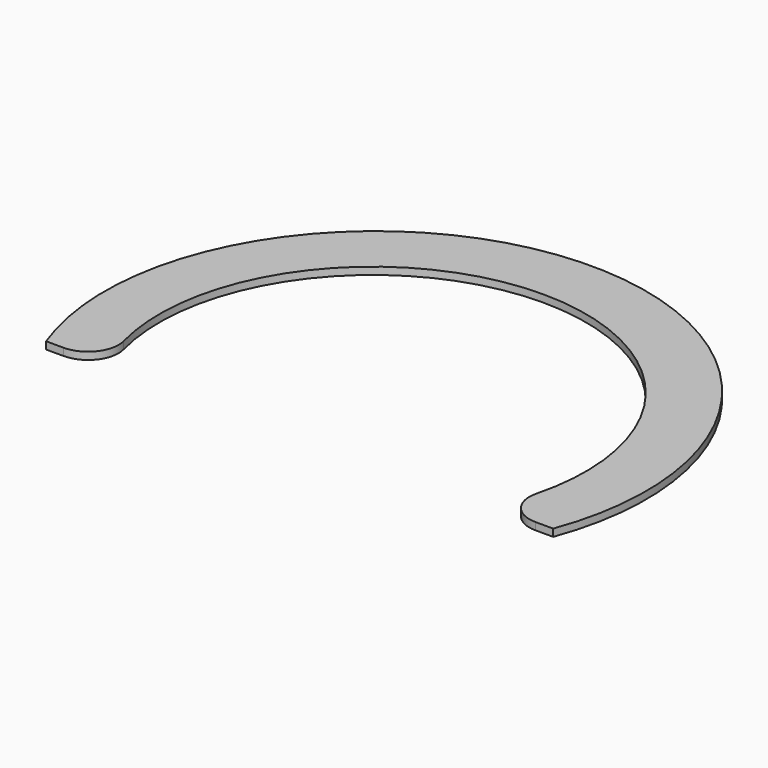
from build123d import *

# Parameters (mm, degrees)
F1_DEPTH = 1.2
F3_DEPTH = 10
F5_DEPTH = 135
F6_R     = 5
F7_R     = 63.736196
F8_DEPTH = 1.2


with BuildPart() as f1:
    # F0 (on Top) → F1 (new body)
    with BuildSketch(Plane.XY):
        with BuildLine():
            ThreePointArc((-31.622777, -15), (0, 35), (31.622777, -15))
            Line((31.622777, -15), (41.622777, -15))
            ThreePointArc((41.622777, -15), (0, 45), (-41.622777, -15))
            Line((-41.622777, -15), (-31.622777, -15))
        make_face()
    extrude(amount=F1_DEPTH)

    # F2 (on face) → F3 (join)
    with BuildSketch(Plane.XY.offset(1.2)):
        with BuildLine():
            ThreePointArc((-31.622777, -15), (0, 35), (31.622777, -15))
            Line((31.622777, -15), (32.822777, -15))
            ThreePointArc((32.822777, -15), (0, 36.2), (-32.822777, -15))
            Line((-32.822777, -15), (-31.622777, -15))
        make_face()
    extrude(amount=F3_DEPTH)

    # F4 (on face) → F5 (join)
    with BuildSketch(Plane.XY.offset(1.2)):
        with BuildLine():
            Line((40.822777, -15), (41.622777, -15))
            ThreePointArc((41.622777, -15), (0, 45), (-41.622777, -15))
            Line((-41.622777, -15), (-40.822777, -15))
            ThreePointArc((-40.822777, -15), (0, 44.2), (40.822777, -15))
        make_face()
    extrude(amount=F5_DEPTH)

    # F6
    f6_edges = [f1.edges().sort_by_distance(p)[0] for p in [
        (-31.622777, -15, 5.6),
        (31.622777, -15, 5.6),
    ]]
    fillet(f6_edges, radius=F6_R)


with BuildPart() as f8:
    # F7 (on Top) → F8 (new body, through all)
    with BuildSketch(Plane.XY):
        Circle(F7_R)
    extrude(amount=F8_DEPTH)

    # F9: intersect F1
    add(f1.part, mode=Mode.INTERSECT)


solid = f8.part
